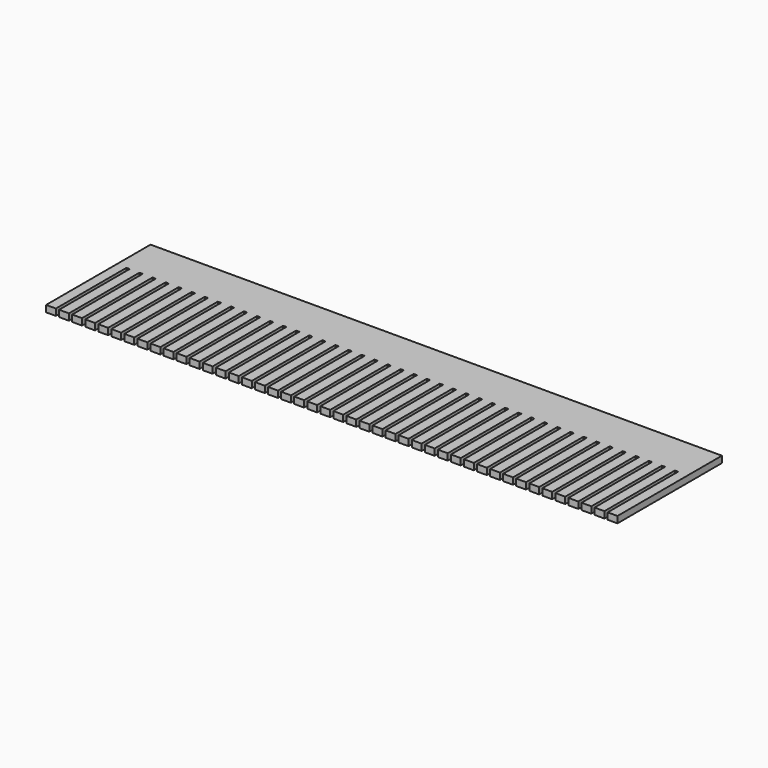
from build123d import *

# Parameters (mm, degrees)
F0_W     = 3
F0_H     = 27
F1_DEPTH = 2


with BuildPart() as f1:
    # F0 (on Top) → F1 (new body)
    with BuildSketch(Plane.XY):
        with Locations((-86.87473, 11.051753)):
            Rectangle(F0_W, F0_H)
        with Locations((-82.87473, 11.051753)):
            Rectangle(F0_W, F0_H)
        with Locations((-78.87473, 11.051753)):
            Rectangle(F0_W, F0_H)
        with Locations((-74.87473, 11.051753)):
            Rectangle(F0_W, F0_H)
        with Locations((-70.87473, 11.051753)):
            Rectangle(F0_W, F0_H)
        with Locations((-66.87473, 11.051753)):
            Rectangle(F0_W, F0_H)
        with Locations((-62.87473, 11.051753)):
            Rectangle(F0_W, F0_H)
        with Locations((-58.87473, 11.051753)):
            Rectangle(F0_W, F0_H)
        with Locations((-54.87473, 11.051753)):
            Rectangle(F0_W, F0_H)
        with Locations((-50.87473, 11.051753)):
            Rectangle(F0_W, F0_H)
        with Locations((-46.87473, 11.051753)):
            Rectangle(F0_W, F0_H)
        with Locations((-42.87473, 11.051753)):
            Rectangle(F0_W, F0_H)
        with Locations((-38.87473, 11.051753)):
            Rectangle(F0_W, F0_H)
        with Locations((-34.87473, 11.051753)):
            Rectangle(F0_W, F0_H)
        with Locations((-30.87473, 11.051753)):
            Rectangle(F0_W, F0_H)
        with Locations((-26.87473, 11.051753)):
            Rectangle(F0_W, F0_H)
        with Locations((-22.87473, 11.051753)):
            Rectangle(F0_W, F0_H)
        with Locations((-18.87473, 11.051753)):
            Rectangle(F0_W, F0_H)
        with Locations((-14.87473, 11.051753)):
            Rectangle(F0_W, F0_H)
        with Locations((-10.87473, 11.051753)):
            Rectangle(F0_W, F0_H)
        with Locations((-6.87473, 11.051753)):
            Rectangle(F0_W, F0_H)
        with Locations((-2.87473, 11.051753)):
            Rectangle(F0_W, F0_H)
        with Locations((1.12527, 11.051753)):
            Rectangle(F0_W, F0_H)
        with Locations((5.12527, 11.051753)):
            Rectangle(F0_W, F0_H)
        with Locations((9.12527, 11.051753)):
            Rectangle(F0_W, F0_H)
        with Locations((13.12527, 11.051753)):
            Rectangle(F0_W, F0_H)
        with Locations((17.12527, 11.051753)):
            Rectangle(F0_W, F0_H)
        with Locations((21.12527, 11.051753)):
            Rectangle(F0_W, F0_H)
        with Locations((25.12527, 11.051753)):
            Rectangle(F0_W, F0_H)
        with Locations((29.12527, 11.051753)):
            Rectangle(F0_W, F0_H)
        with Locations((33.12527, 11.051753)):
            Rectangle(F0_W, F0_H)
        with Locations((37.12527, 11.051753)):
            Rectangle(F0_W, F0_H)
        with Locations((41.12527, 11.051753)):
            Rectangle(F0_W, F0_H)
        with Locations((45.12527, 11.051753)):
            Rectangle(F0_W, F0_H)
        with Locations((49.12527, 11.051753)):
            Rectangle(F0_W, F0_H)
        with Locations((53.12527, 11.051753)):
            Rectangle(F0_W, F0_H)
        with Locations((57.12527, 11.051753)):
            Rectangle(F0_W, F0_H)
        with Locations((61.12527, 11.051753)):
            Rectangle(F0_W, F0_H)
        with Locations((65.12527, 11.051753)):
            Rectangle(F0_W, F0_H)
        with Locations((69.12527, 11.051753)):
            Rectangle(F0_W, F0_H)
        with Locations((73.12527, 11.051753)):
            Rectangle(F0_W, F0_H)
        with Locations((77.12527, 11.051753)):
            Rectangle(F0_W, F0_H)
        with Locations((81.12527, 11.051753)):
            Rectangle(F0_W, F0_H)
        with Locations((85.12527, 11.051753)):
            Rectangle(F0_W, F0_H)
        Polygon((86.62527, 37.551753), (-88.37473, 37.551753), (-88.37473, 24.551753), (-85.37473, 24.551753), (-84.37473, 24.551753), (-81.37473, 24.551753), (-80.37473, 24.551753), (-77.37473, 24.551753), (-76.37473, 24.551753), (-73.37473, 24.551753), (-72.37473, 24.551753), (-69.37473, 24.551753), (-68.37473, 24.551753), (-65.37473, 24.551753), (-64.37473, 24.551753), (-61.37473, 24.551753), (-60.37473, 24.551753), (-57.37473, 24.551753), (-56.37473, 24.551753), (-53.37473, 24.551753), (-52.37473, 24.551753), (-49.37473, 24.551753), (-48.37473, 24.551753), (-45.37473, 24.551753), (-44.37473, 24.551753), (-41.37473, 24.551753), (-40.37473, 24.551753), (-37.37473, 24.551753), (-36.37473, 24.551753), (-33.37473, 24.551753), (-32.37473, 24.551753), (-29.37473, 24.551753), (-28.37473, 24.551753), (-25.37473, 24.551753), (-24.37473, 24.551753), (-21.37473, 24.551753), (-20.37473, 24.551753), (-17.37473, 24.551753), (-16.37473, 24.551753), (-13.37473, 24.551753), (-12.37473, 24.551753), (-9.37473, 24.551753), (-8.37473, 24.551753), (-5.37473, 24.551753), (-4.37473, 24.551753), (-1.37473, 24.551753), (-0.37473, 24.551753), (2.62527, 24.551753), (3.62527, 24.551753), (6.62527, 24.551753), (7.62527, 24.551753), (10.62527, 24.551753), (11.62527, 24.551753), (14.62527, 24.551753), (15.62527, 24.551753), (18.62527, 24.551753), (19.62527, 24.551753), (22.62527, 24.551753), (23.62527, 24.551753), (26.62527, 24.551753), (27.62527, 24.551753), (30.62527, 24.551753), (31.62527, 24.551753), (34.62527, 24.551753), (35.62527, 24.551753), (38.62527, 24.551753), (39.62527, 24.551753), (42.62527, 24.551753), (43.62527, 24.551753), (46.62527, 24.551753), (47.62527, 24.551753), (50.62527, 24.551753), (51.62527, 24.551753), (54.62527, 24.551753), (55.62527, 24.551753), (58.62527, 24.551753), (59.62527, 24.551753), (62.62527, 24.551753), (63.62527, 24.551753), (66.62527, 24.551753), (67.62527, 24.551753), (70.62527, 24.551753), (71.62527, 24.551753), (74.62527, 24.551753), (75.62527, 24.551753), (78.62527, 24.551753), (79.62527, 24.551753), (82.62527, 24.551753), (83.62527, 24.551753), (86.62527, 24.551753), align=None)
    extrude(amount=F1_DEPTH)


solid = f1.part
